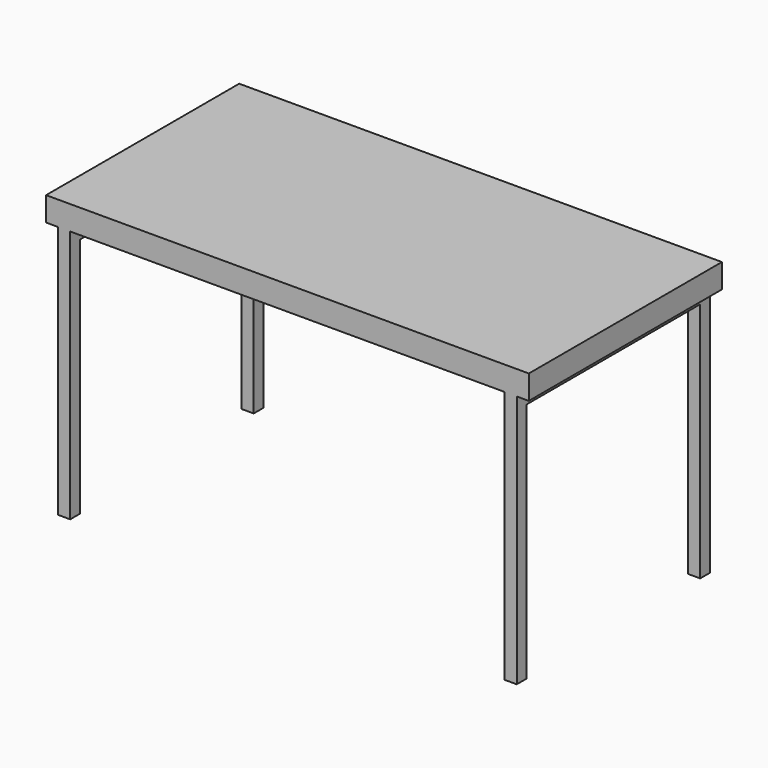
from build123d import *

# Parameters (mm, degrees)
F0_W     = 25.4
F0_H     = 12.7
F1_DEPTH = 1.27
F2_W     = 0.635
F2_H     = 0.635
F3_DEPTH = 12.7
F4_W     = 0.635
F4_H     = 0.635
F5_DEPTH = 12.7


with BuildPart() as f1:
    # F0 (on Top) → F1 (new body)
    with BuildSketch(Plane.XY):
        Rectangle(F0_W, F0_H)
    extrude(amount=F1_DEPTH)

    # F2 (on face) → F3 (join)
    with BuildSketch(Plane.XZ.offset(6.35)):
        with Locations((-11.7475, -0.3175)):
            Rectangle(F2_W, F2_H)
        with Locations((11.7475, -0.3175)):
            Rectangle(F2_W, F2_H)
    extrude(amount=-F3_DEPTH)

    # F4 (on face) → F5 (join)
    with BuildSketch(Plane(origin=(0, 0, -0.635), x_dir=(1, 0, 0), z_dir=(0, 0, -1))):
        with Locations((11.7475, -6.0325)):
            Rectangle(F4_W, F4_H)
        with Locations((11.7475, 6.0325)):
            Rectangle(F4_W, F4_H)
        with Locations((-11.7475, -6.0325)):
            Rectangle(F4_W, F4_H)
        with Locations((-11.7475, 6.0325)):
            Rectangle(F4_W, F4_H)
    extrude(amount=F5_DEPTH)


solid = f1.part
